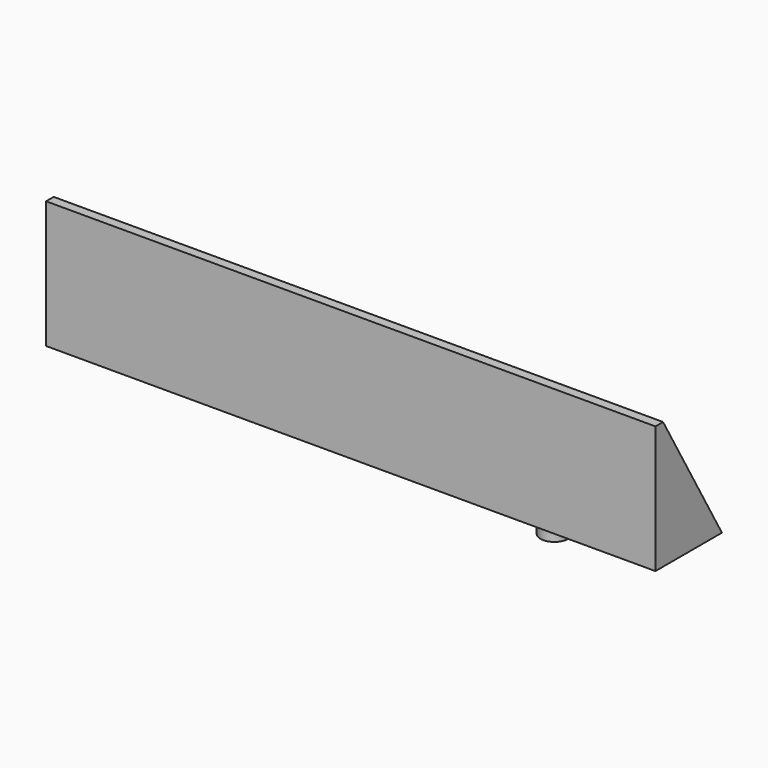
from build123d import *

# Parameters (mm, degrees)
PAD_DEPTH    = 55
SKETCH001_R  = 2.5
PAD001_DEPTH = 5
SKETCH002_R  = 2.5
POCKET_DEPTH = 5


with BuildPart() as part:
    # Sketch → Pad (new body, symmetric)
    with BuildSketch(Plane.YZ):
        Polygon((0, 0), (-13.2790561914, 23), (-15, 23), (-15, 0), align=None)
    extrude(amount=PAD_DEPTH, both=True)

    # Sketch001 → Pad001 (join)
    with BuildSketch(Plane.XY):
        with Locations((30.7591449816, -7.5)):
            Circle(SKETCH001_R)
    extrude(amount=-PAD001_DEPTH)

    # Sketch002 (on Face1 of Pad001) → Pocket (cut)
    with BuildSketch(Plane(origin=(0, 0, 0), x_dir=(0, -0.5, 0.8660254038), z_dir=(0, 0.8660254038, 0.5))):
        with Locations((13.2790561914, 17.9531074876)):
            Circle(SKETCH002_R)
    extrude(amount=-POCKET_DEPTH, mode=Mode.SUBTRACT)


with BuildPart() as part_1:
    # Body placement: moved
    add(part.part.moved(Location((0, 15, 0))))


solid = part_1.part
